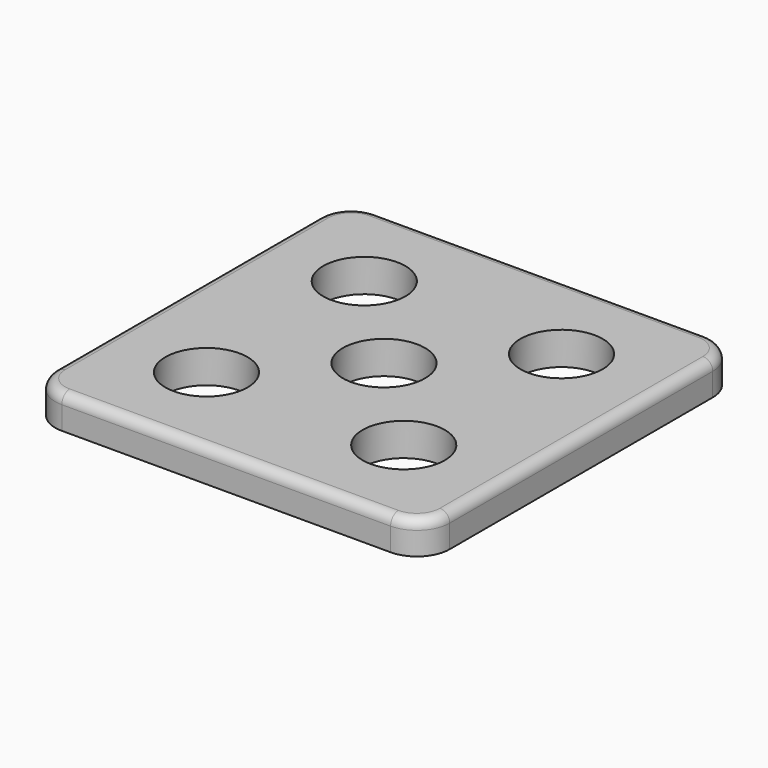
from build123d import *

# Parameters (mm, degrees)
F0_R     = 3.175
F1_DEPTH = 2.54
F2_R     = 0.762


with BuildPart() as f1:
    # F0 (on Top) → F1 (new body)
    with BuildSketch(Plane.XY):
        with BuildLine():
            Line((27.94, 0), (2.54, 0))
            ThreePointArc((2.54, 0), (0.743949, -0.743949), (0, -2.54))
            Line((0, -2.54), (0, -27.94))
            ThreePointArc((0, -27.94), (0.743949, -29.736051), (2.54, -30.48))
            Line((2.54, -30.48), (27.94, -30.48))
            ThreePointArc((27.94, -30.48), (29.736051, -29.736051), (30.48, -27.94))
            Line((30.48, -27.94), (30.48, -2.54))
            ThreePointArc((30.48, -2.54), (29.736051, -0.743949), (27.94, 0))
        make_face()
        with Locations((7.62, -22.86)):
            Circle(F0_R, mode=Mode.SUBTRACT)
        with Locations((22.86, -22.86)):
            Circle(F0_R, mode=Mode.SUBTRACT)
        with Locations((15.24, -15.24)):
            Circle(F0_R, mode=Mode.SUBTRACT)
        with Locations((7.62, -7.62)):
            Circle(F0_R, mode=Mode.SUBTRACT)
        with Locations((22.86, -7.62)):
            Circle(F0_R, mode=Mode.SUBTRACT)
    extrude(amount=F1_DEPTH)

    # F2
    f2_edges = [f1.edges().sort_by_distance(p)[0] for p in [
        (30.48, -15.24, 2.54),
    ]]
    fillet(f2_edges, radius=F2_R)


solid = f1.part
